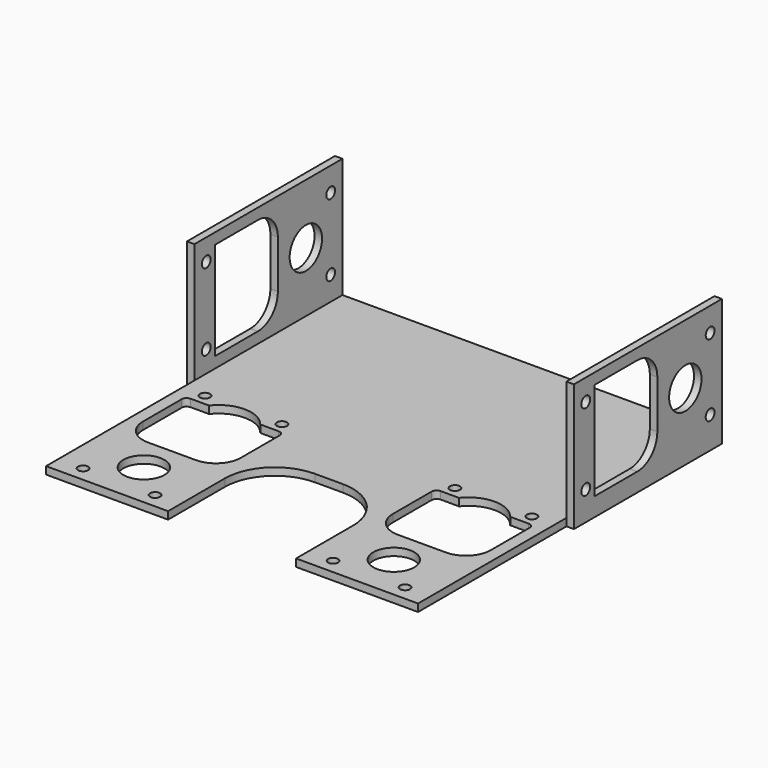
from build123d import *

# Parameters (mm, degrees)
F0_W          = 74.4
F0_H          = 39.1
F0_R          = 1
F0_R_2        = 4.1
F1_DEPTH      = 1.5
F2_W          = 74.4
F2_H          = 35
F3_DEPTH      = 1.5
F4_W          = 25.6
F4_H          = 24.2
F5_DEPTH      = 1.5
F6_R          = 10
F7_W          = 1.5
F7_H          = 37
F8_DEPTH      = 24
F8_DEPTH_BACK = 1.5
F9_R          = 1.1
F9_R_2        = 4.05
F10_DEPTH     = 1.5


with BuildPart() as f1:
    # F0 (on Top) → F1 (new body)
    with BuildSketch(Plane.XY):
        Rectangle(F0_W, F0_H)
        with Locations((-32.2, -16.55)):
            Circle(F0_R, mode=Mode.SUBTRACT)
        with Locations((-25, -10.35)):
            Circle(F0_R_2, mode=Mode.SUBTRACT)
        with Locations((-17.8, -16.55)):
            Circle(F0_R, mode=Mode.SUBTRACT)
        with Locations((17.8, -16.55)):
            Circle(F0_R, mode=Mode.SUBTRACT)
        with Locations((32.2, -16.55)):
            Circle(F0_R, mode=Mode.SUBTRACT)
        with Locations((25, -10.35)):
            Circle(F0_R_2, mode=Mode.SUBTRACT)
        with BuildLine():
            ThreePointArc((-34.8, 11.35), (-34.507107, 12.057107), (-33.8, 12.35))
            Line((-33.8, 12.35), (-30.123475, 12.35))
            ThreePointArc((-30.123475, 12.35), (-25, 14.85), (-19.876525, 12.35))
            Line((-19.876525, 12.35), (-16.2, 12.35))
            ThreePointArc((-16.2, 12.35), (-15.492893, 12.057107), (-15.2, 11.35))
            Line((-15.2, 11.35), (-15.2, 1.65))
            ThreePointArc((-15.2, 1.65), (-16.664466, -1.885534), (-20.2, -3.35))
            Line((-20.2, -3.35), (-29.8, -3.35))
            ThreePointArc((-29.8, -3.35), (-33.335534, -1.885534), (-34.8, 1.65))
            Line((-34.8, 1.65), (-34.8, 11.35))
        make_face(mode=Mode.SUBTRACT)
        with Locations((-32.7, 14.55)):
            Circle(F0_R, mode=Mode.SUBTRACT)
        with Locations((-17.3, 14.55)):
            Circle(F0_R, mode=Mode.SUBTRACT)
        with BuildLine():
            Line((15.2, 1.65), (15.2, 11.35))
            ThreePointArc((15.2, 11.35), (15.492893, 12.057107), (16.2, 12.35))
            Line((16.2, 12.35), (19.876525, 12.35))
            ThreePointArc((19.876525, 12.35), (25, 14.85), (30.123475, 12.35))
            Line((30.123475, 12.35), (33.8, 12.35))
            ThreePointArc((33.8, 12.35), (34.507107, 12.057107), (34.8, 11.35))
            Line((34.8, 11.35), (34.8, 1.65))
            ThreePointArc((34.8, 1.65), (33.335534, -1.885534), (29.8, -3.35))
            Line((29.8, -3.35), (20.2, -3.35))
            ThreePointArc((20.2, -3.35), (16.664466, -1.885534), (15.2, 1.65))
        make_face(mode=Mode.SUBTRACT)
        with Locations((17.3, 14.55)):
            Circle(F0_R, mode=Mode.SUBTRACT)
        with Locations((32.7, 14.55)):
            Circle(F0_R, mode=Mode.SUBTRACT)
    extrude(amount=F1_DEPTH)

    # F2 (on face) → F3 (join)
    with BuildSketch(Plane.XY.offset(1.5)):
        with Locations((0, 37.05)):
            Rectangle(F2_W, F2_H)
    extrude(amount=-F3_DEPTH)

    # F4 (on face) → F5 (cut, through all)
    with BuildSketch(Plane.XY.offset(1.5)):
        with Locations((0, -7.45)):
            Rectangle(F4_W, F4_H)
    extrude(amount=-F5_DEPTH, mode=Mode.SUBTRACT)

    # F6
    f6_edges = [f1.edges().sort_by_distance(p)[0] for p in [
        (-12.8, 4.65, 0.75),
        (12.8, 4.65, 0.75),
    ]]
    fillet(f6_edges, radius=F6_R)

    # F7 (on face) → F8 (join, two sides)
    with BuildSketch(Plane.XY.offset(1.5)) as f8_sk:
        with Locations((37.95, 36.05)):
            Rectangle(F7_W, F7_H)
    extrude(amount=F8_DEPTH)
    extrude(f8_sk.sketch, amount=-F8_DEPTH_BACK)

    # F9 (on face) → F10 (cut, through all)
    with BuildSketch(Plane.YZ.offset(38.7)):
        with Locations((51.6, 20.7)):
            Circle(F9_R)
        with Locations((45.4, 13.5)):
            Circle(F9_R_2)
        with BuildLine():
            ThreePointArc((38.4, 18.3), (36.935534, 21.835534), (33.4, 23.3))
            Line((33.4, 23.3), (22.7, 23.3))
            Line((22.7, 23.3), (22.7, 3.7))
            Line((22.7, 3.7), (33.4, 3.7))
            ThreePointArc((33.4, 3.7), (36.935534, 5.164466), (38.4, 8.7))
            Line((38.4, 8.7), (38.4, 18.3))
        make_face()
        with Locations((51.6, 6.3)):
            Circle(F9_R)
        with Locations((20.5, 21.2)):
            Circle(F9_R)
        with Locations((20.5, 5.8)):
            Circle(F9_R)
    extrude(amount=-F10_DEPTH, mode=Mode.SUBTRACT)

    # F11: F1 across plane


with BuildPart() as f1_1:
    add(f1.part)
    add(f1.part.mirror(Plane.YZ))


solid = f1_1.part
